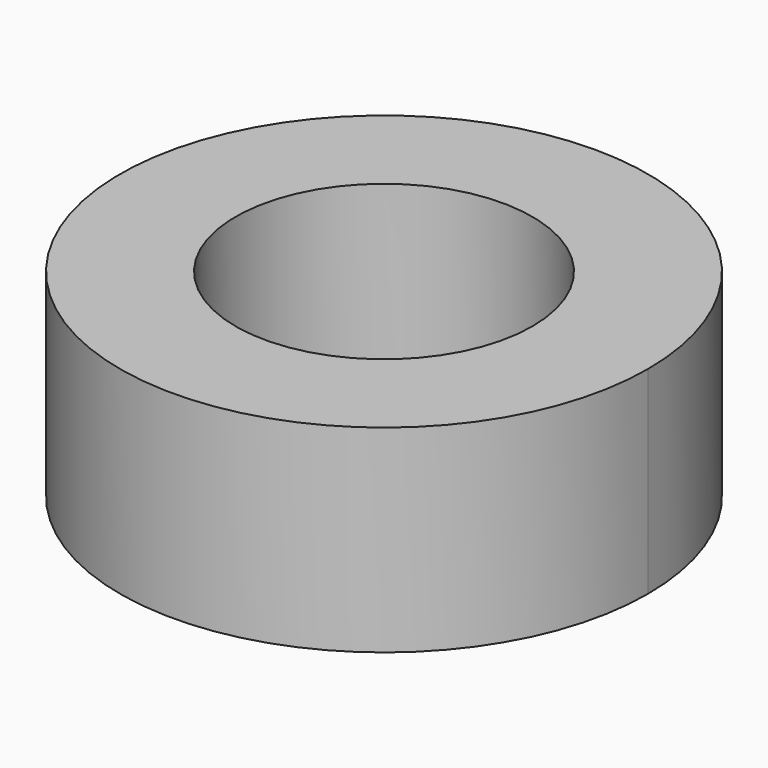
from build123d import *

# Parameters (mm, degrees)
F1_DEPTH = 30
F2_R     = 22.490122
F3_DEPTH = 30.001


with BuildPart() as f1:
    # F0 (on Top) → F1 (new body)
    with BuildSketch(Plane.XY):
        with BuildLine():
            ThreePointArc((0, 40), (-28.284271, -28.284271), (40, 0))
            ThreePointArc((40, 0), (28.284271, 28.284271), (0, 40))
        make_face()
    extrude(amount=F1_DEPTH)

    # F2 (on face) → F3 (cut, through all)
    with BuildSketch(Plane.XY.offset(30)):
        Circle(F2_R)
    extrude(amount=-F3_DEPTH, mode=Mode.SUBTRACT)


with BuildPart() as f4_1:
    # F4: copy of F1
    add(f1.part)


solid = f1.part
